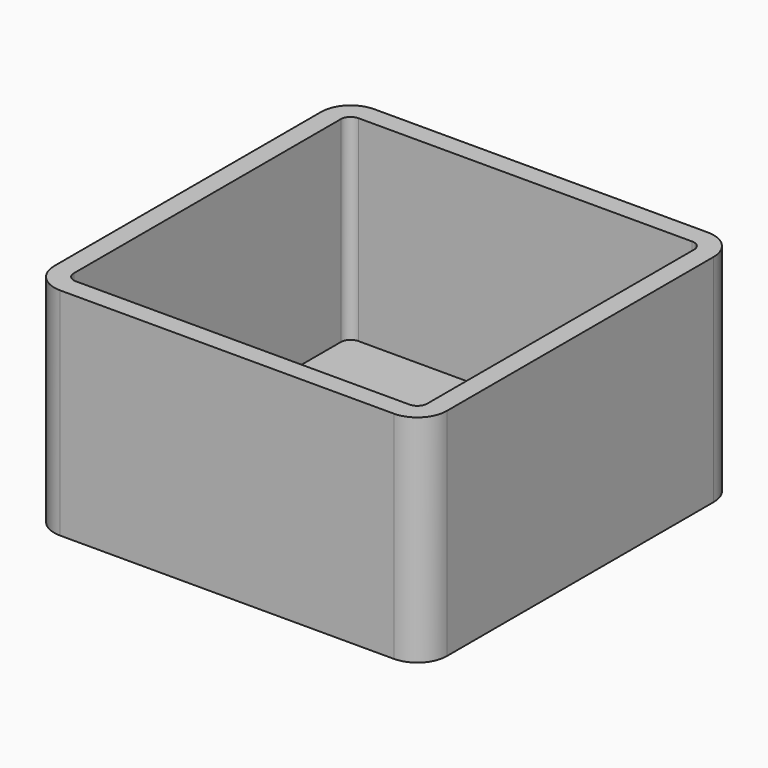
from build123d import *

# Parameters (mm, degrees)
F0_W     = 20
F0_H     = 20
F1_DEPTH = 1
F2_W     = 20
F2_H     = 20
F2_W_2   = 18
F2_H_2   = 18
F3_DEPTH = 10
F4_R     = 1.5
F5_R     = 0.5
F6_R     = 1.5
F7_R     = 1.5
F8_R     = 1.5
F9_R     = 0.5
F10_R    = 0.5
F11_R    = 0.5


with BuildPart() as f1:
    # F0 (on Top) → F1 (new body)
    with BuildSketch(Plane.XY):
        Rectangle(F0_W, F0_H)
    extrude(amount=F1_DEPTH)

    # F2 (on face) → F3 (join)
    with BuildSketch(Plane.XY.offset(1)):
        Rectangle(F2_W, F2_H)
        Rectangle(F2_W_2, F2_H_2, mode=Mode.SUBTRACT)
    extrude(amount=F3_DEPTH)

    # F4
    f4_edges = [f1.edges().sort_by_distance(p)[0] for p in [
        (10, -10, 5.5),
    ]]
    fillet(f4_edges, radius=F4_R)

    # F5
    f5_edges = [f1.edges().sort_by_distance(p)[0] for p in [
        (9, -9, 6),
    ]]
    fillet(f5_edges, radius=F5_R)

    # F6
    f6_edges = [f1.edges().sort_by_distance(p)[0] for p in [
        (10, 10, 5.5),
    ]]
    fillet(f6_edges, radius=F6_R)

    # F7
    f7_edges = [f1.edges().sort_by_distance(p)[0] for p in [
        (-10, 10, 5.5),
    ]]
    fillet(f7_edges, radius=F7_R)

    # F8
    f8_edges = [f1.edges().sort_by_distance(p)[0] for p in [
        (-10, -10, 5.5),
    ]]
    fillet(f8_edges, radius=F8_R)

    # F9
    f9_edges = [f1.edges().sort_by_distance(p)[0] for p in [
        (-9, 9, 6),
    ]]
    fillet(f9_edges, radius=F9_R)

    # F10
    f10_edges = [f1.edges().sort_by_distance(p)[0] for p in [
        (9, 9, 6),
    ]]
    fillet(f10_edges, radius=F10_R)

    # F11
    f11_edges = [f1.edges().sort_by_distance(p)[0] for p in [
        (-9, -9, 6),
    ]]
    fillet(f11_edges, radius=F11_R)


solid = f1.part
